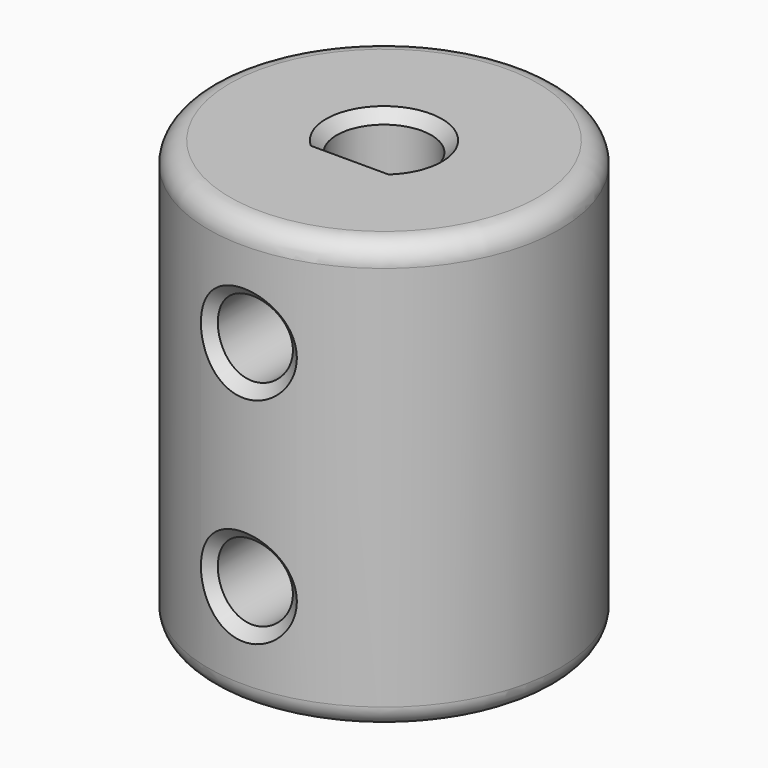
from build123d import *

# Parameters (mm, degrees)
SKETCH_R        = 8.185
PAD_DEPTH       = 20
POCKET_DEPTH    = 10
SKETCH002_R     = 3.21
POCKET001_DEPTH = 10
SKETCH003_W     = 16.37
SKETCH003_H     = 16.37
PAD001_DEPTH    = 5
SKETCH004_R     = 1.75
POCKET002_DEPTH = 16.371
SKETCH005_W     = 16.37
SKETCH005_H     = 16.37
POCKET003_DEPTH = 5
CHAMFER_SIZE    = 0.5
FILLET_R        = 1


with BuildPart() as part:
    # Sketch → Pad (new body)
    with BuildSketch(Plane.XY):
        Circle(SKETCH_R)
    extrude(amount=PAD_DEPTH)

    # Sketch001 (on Face3 of Pad) → Pocket (cut)
    with BuildSketch(Plane.XY.offset(20)):
        with BuildLine():
            ThreePointArc((1.609348, -1.5), (0, 2.2), (-1.609348, -1.5))
            Line((-1.609348, -1.5), (1.609348, -1.5))
        make_face()
    extrude(amount=-POCKET_DEPTH, mode=Mode.SUBTRACT)

    # Sketch002 (on Face2 of Pocket) → Pocket001 (cut)
    with BuildSketch(Plane(origin=(0, 0, 0), x_dir=(1, 0, 0), z_dir=(0, 0, -1))):
        Circle(SKETCH002_R)
    extrude(amount=-POCKET001_DEPTH, mode=Mode.SUBTRACT)

    # Sketch003 (on Face3 of Pocket001) → Pad001 (join)
    with BuildSketch(Plane.XY.offset(20)):
        Rectangle(SKETCH003_W, SKETCH003_H)
    extrude(amount=PAD001_DEPTH)

    # Sketch004 (on Face11 of Pad001) → Pocket002 (cut, through all)
    with BuildSketch(Plane(origin=(0, 8.185, 0), x_dir=(-1, 0, 0), z_dir=(0, 1, 0))):
        with Locations((0, 15)):
            Circle(SKETCH004_R)
        with Locations((0, 5)):
            Circle(SKETCH004_R)
    extrude(amount=-POCKET002_DEPTH, mode=Mode.SUBTRACT)

    # Sketch005 (on Face19 of Pocket002) → Pocket003 (cut)
    with BuildSketch(Plane.XY.offset(25)):
        Rectangle(SKETCH005_W, SKETCH005_H)
    extrude(amount=-POCKET003_DEPTH, mode=Mode.SUBTRACT)

    # Chamfer
    chamfer_edges = [part.edges().sort_by_distance(p)[0] for p in [
        (-3.21, 0, 0),
        (-1.237465, 8.090915, 3.762591),
        (1.75, 7.995732, 5),
        (-1.237465, 8.090915, 6.237409),
        (-1.237465, 8.090915, 13.762591),
        (1.75, 7.995732, 15),
        (-1.237465, 8.090915, 16.237409),
        (1.75, -7.995732, 5),
        (1.75, -7.995732, 15),
        (0, 2.2, 20),
        (0, -1.5, 20),
    ]]
    chamfer(chamfer_edges, length=CHAMFER_SIZE)

    # Fillet
    fillet_edges = [part.edges().sort_by_distance(p)[0] for p in [
        (5.787669, 5.787669, 20),
        (-5.787669, 5.787669, 20),
        (-5.787669, -5.787669, 20),
        (5.787669, -5.787669, 20),
        (-8.185, 0, 0),
    ]]
    fillet(fillet_edges, radius=FILLET_R)


solid = part.part
